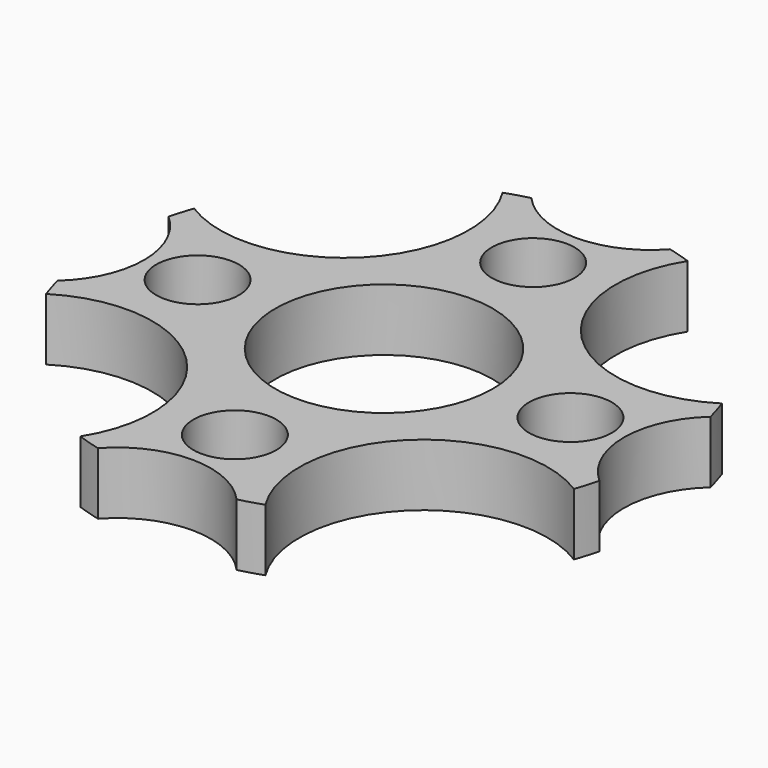
from build123d import *

# Parameters (mm, degrees)
F0_R     = 1.33216
F0_R_2   = 3.5
F1_DEPTH = 2


with BuildPart() as f1:
    # F0 (on Top) → F1 (new body)
    with BuildSketch(Plane.XY):
        with BuildLine():
            ThreePointArc((-8.493127, -2.977716), (-3.535534, -3.535534), (-2.977716, -8.493127))
            ThreePointArc((-2.977716, -8.493127), (-2.607487, -8.614001), (-2.232376, -8.718744))
            ThreePointArc((-2.232376, -8.718744), (0, -7.722864), (2.232376, -8.718744))
            ThreePointArc((2.232376, -8.718744), (2.607487, -8.614001), (2.977716, -8.493127))
            ThreePointArc((2.977716, -8.493127), (3.535534, -3.535534), (8.493127, -2.977716))
            ThreePointArc((8.493127, -2.977716), (8.614001, -2.607487), (8.718744, -2.232376))
            ThreePointArc((8.718744, -2.232376), (7.722864, 0), (8.718744, 2.232376))
            ThreePointArc((8.718744, 2.232376), (8.614001, 2.607487), (8.493127, 2.977716))
            ThreePointArc((8.493127, 2.977716), (3.535534, 3.535534), (2.977716, 8.493127))
            ThreePointArc((2.977716, 8.493127), (2.607487, 8.614001), (2.232376, 8.718744))
            ThreePointArc((2.232376, 8.718744), (0, 7.722864), (-2.232376, 8.718744))
            ThreePointArc((-2.232376, 8.718744), (-2.607487, 8.614001), (-2.977716, 8.493127))
            ThreePointArc((-2.977716, 8.493127), (-3.535534, 3.535534), (-8.493127, 2.977716))
            ThreePointArc((-8.493127, 2.977716), (-8.614001, 2.607487), (-8.718744, 2.232376))
            ThreePointArc((-8.718744, 2.232376), (-7.722864, 0), (-8.718744, -2.232376))
            ThreePointArc((-8.718744, -2.232376), (-8.614001, -2.607487), (-8.493127, -2.977716))
        make_face()
        with Locations((0, -6)):
            Circle(F0_R, mode=Mode.SUBTRACT)
        with Locations((-6, 0)):
            Circle(F0_R, mode=Mode.SUBTRACT)
        Circle(F0_R_2, mode=Mode.SUBTRACT)
        with Locations((0, 6)):
            Circle(F0_R, mode=Mode.SUBTRACT)
        with Locations((6, 0)):
            Circle(F0_R, mode=Mode.SUBTRACT)
    extrude(amount=F1_DEPTH)


solid = f1.part
